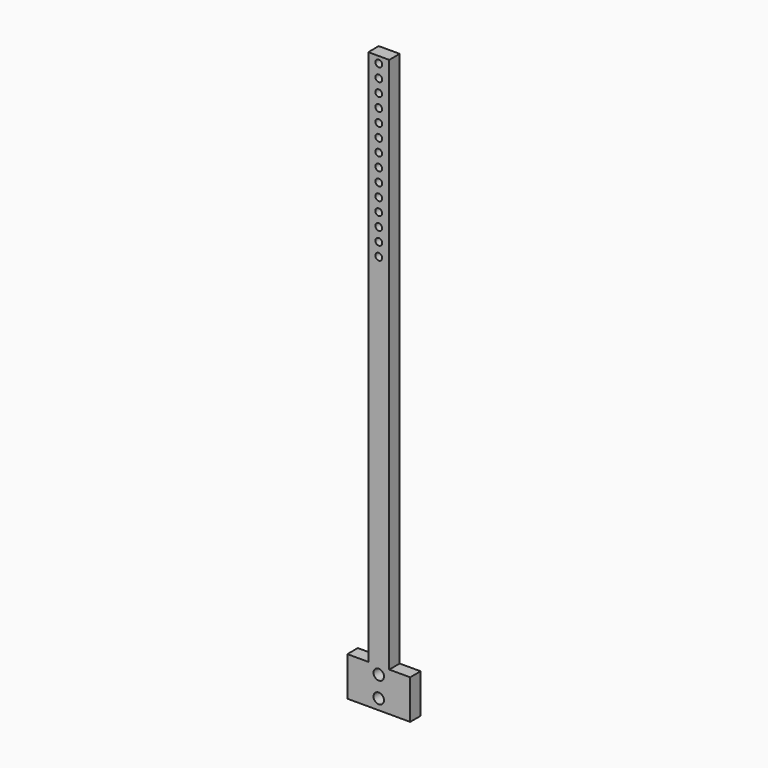
from build123d import *

# Parameters (mm, degrees)
F0_R     = 2
F0_R_2   = 1.3
F1_DEPTH = 5


with BuildPart() as f1:
    # F0 (on Front) → F1 (new body)
    with BuildSketch(Plane.XZ):
        Polygon((-4, -125), (4, -125), (12, -125), (12, -110), (4, -110), (4, 95), (-4, 95), (-4, -110), (-12, -110), (-12, -125), align=None)
        with Locations((0, -121)):
            Circle(F0_R, mode=Mode.SUBTRACT)
        with Locations((0, -113)):
            Circle(F0_R, mode=Mode.SUBTRACT)
        with Locations((0, 27.5)):
            Circle(F0_R_2, mode=Mode.SUBTRACT)
        with Locations((0, 32.5)):
            Circle(F0_R_2, mode=Mode.SUBTRACT)
        with Locations((0, 37.5)):
            Circle(F0_R_2, mode=Mode.SUBTRACT)
        with Locations((0, 42.5)):
            Circle(F0_R_2, mode=Mode.SUBTRACT)
        with Locations((0, 47.5)):
            Circle(F0_R_2, mode=Mode.SUBTRACT)
        with Locations((0, 52.5)):
            Circle(F0_R_2, mode=Mode.SUBTRACT)
        with Locations((0, 57.5)):
            Circle(F0_R_2, mode=Mode.SUBTRACT)
        with Locations((0, 62.5)):
            Circle(F0_R_2, mode=Mode.SUBTRACT)
        with Locations((0, 67.5)):
            Circle(F0_R_2, mode=Mode.SUBTRACT)
        with Locations((0, 72.5)):
            Circle(F0_R_2, mode=Mode.SUBTRACT)
        with Locations((0, 77.5)):
            Circle(F0_R_2, mode=Mode.SUBTRACT)
        with Locations((0, 82.5)):
            Circle(F0_R_2, mode=Mode.SUBTRACT)
        with Locations((0, 87.5)):
            Circle(F0_R_2, mode=Mode.SUBTRACT)
        with Locations((0, 92.5)):
            Circle(F0_R_2, mode=Mode.SUBTRACT)
    extrude(amount=F1_DEPTH)


solid = f1.part
